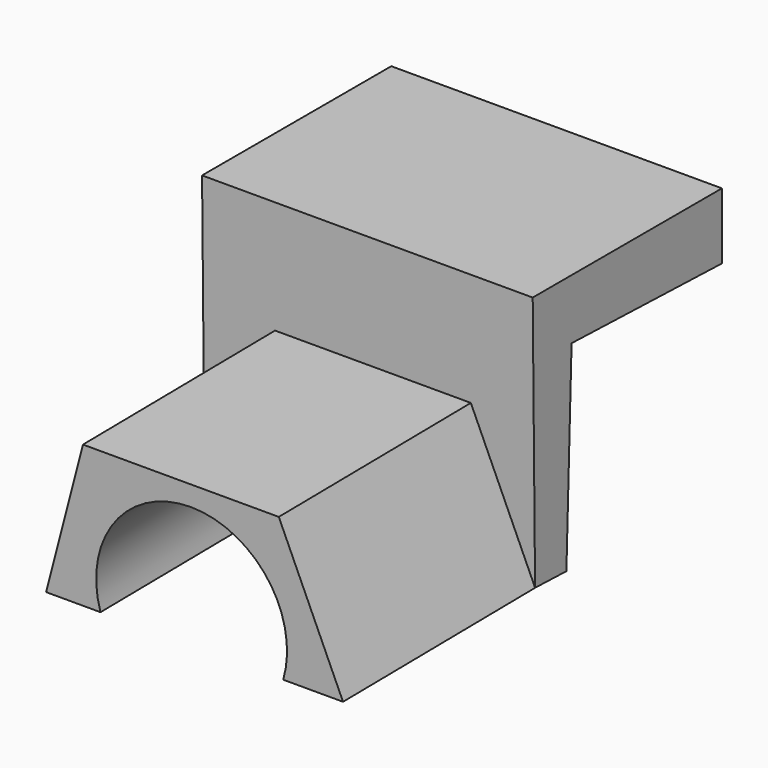
from build123d import *

# Parameters (mm, degrees)
F1_DEPTH = 124.605777
F3_DEPTH = 90.471456


with BuildPart() as f1:
    # F0 (on Right) → F1 (new body)
    with BuildSketch(Plane.YZ):
        Polygon((48.47084, 42.400122), (-40.656887, 42.400122), (-39.54119, -54.351695), (-24.789914, -54.835306), (-22.342965, 19.802377), (48.47084, 17.480791), align=None)
    extrude(amount=F1_DEPTH)

    # F2 (on face) → F3 (join)
    with BuildSketch(Plane(origin=(0, -40.162608, -0.463136), x_dir=(1, 0, 0), z_dir=(0, -0.999934, -0.011531))):
        with BuildLine():
            ThreePointArc((33.207174, -53.892141), (67.636652, -7.560061), (102.066129, -53.892141))
            Line((102.066129, -53.892141), (124.605777, -53.892141))
            Line((124.605777, -53.892141), (100.895032, 0))
            Line((100.895032, 0), (27.102176, 0))
            Line((27.102176, 0), (12.699939, -53.892141))
            Line((12.699939, -53.892141), (33.207174, -53.892141))
        make_face()
    extrude(amount=F3_DEPTH)


solid = f1.part
